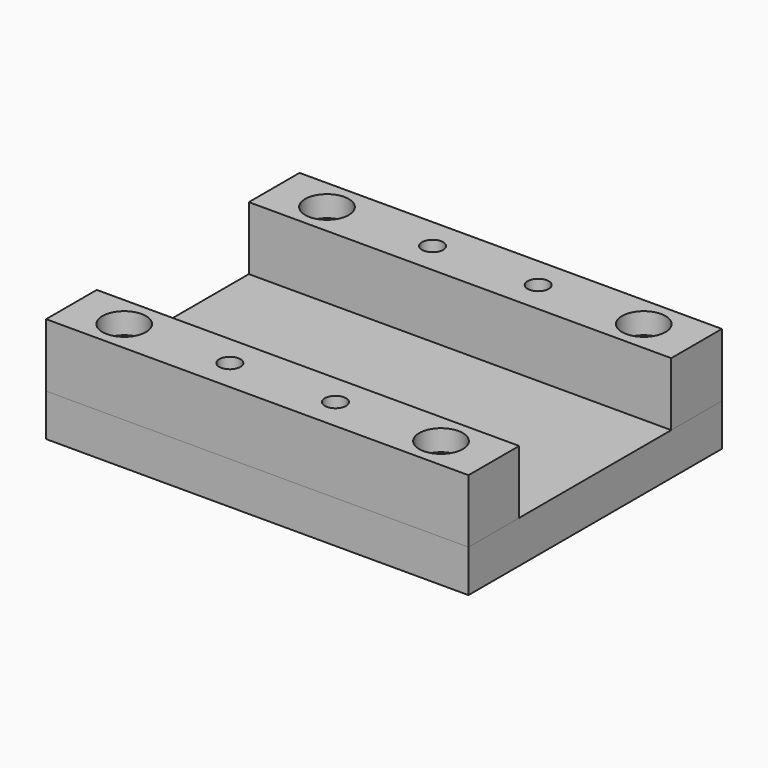
from build123d import *

# Parameters (mm, degrees)
F0_W             = 80
F0_H             = 60
F1_DEPTH         = 8
F2_W             = 80
F2_H             = 12
F3_DEPTH         = 12
F5_D             = 4.4
F5_DEPTH         = 12
F5_CBORE_D       = 8.25
F5_CBORE_DEPTH   = 4
F5_TIP           = 1.3218933619
F5_2_D           = 4.4
F5_2_DEPTH       = 12
F5_2_CBORE_D     = 8.25
F5_2_CBORE_DEPTH = 4
F5_2_TIP         = 1.3218933619
F7_D             = 4
F7_2_D           = 4
F7_3_D           = 4
F8_D             = 3.3
F8_CBORE_D       = 8.25
F8_CBORE_DEPTH   = 4


with BuildPart() as f1:
    # F0 (on Top) → F1 (new body)
    with BuildSketch(Plane.XY):
        with Locations((8.1536909938, 4.5676219463)):
            Rectangle(F0_W, F0_H)
    extrude(amount=F1_DEPTH)

    # F7 (through all)
    with Locations(Plane.XY.offset(20)):
        with Locations((-1.8463090062, 28.5676219463), (18.1536909938, 28.5676219463), (18.1536909938, -19.4323780537), (-1.8463090062, -19.4323780537)):
            Hole(F7_D / 2)

    # F8 (through all)
    with Locations(Plane.XY.offset(20)):
        with Locations((-21.8463090062, 28.5676219463), (38.1536909938, 28.5676219463), (38.1536909938, -19.4323780537), (-21.8463090062, -19.4323780537)):
            CounterBoreHole(F8_D / 2, F8_CBORE_D / 2, F8_CBORE_DEPTH)


with BuildPart() as f3:
    # F2 (on face) → F3 (new body)
    with BuildSketch(Plane.XY.offset(8)):
        with Locations((8.1536909938, 28.5676219463)):
            Rectangle(F2_W, F2_H)
    extrude(amount=F3_DEPTH)

    # F5
    with Locations(Plane.XY.offset(20)):
        with Locations((-21.8463090062, 28.5676219463), (38.1536909938, 28.5676219463), (38.1536909938, -19.4323780537), (-21.8463090062, -19.4323780537)):
            CounterBoreHole(F5_D / 2, F5_CBORE_D / 2, F5_CBORE_DEPTH, depth=F5_DEPTH)
            with Locations((0, 0, -(F5_DEPTH + F5_TIP / 2))):  # 118° drill point
                Cone(0, F5_D / 2, F5_TIP, mode=Mode.SUBTRACT)

    # F7#2 (through all)
    with Locations(Plane.XY.offset(20)):
        with Locations((-1.8463090062, 28.5676219463), (18.1536909938, 28.5676219463), (18.1536909938, -19.4323780537), (-1.8463090062, -19.4323780537)):
            Hole(F7_2_D / 2)


with BuildPart() as f3b:
    # F2 (on face) → F3, piece 2 (new body)
    with BuildSketch(Plane.XY.offset(8)):
        with Locations((8.1536909938, -19.4323780537)):
            Rectangle(F2_W, F2_H)
    extrude(amount=F3_DEPTH)

    # F5#2
    with Locations(Plane.XY.offset(20)):
        with Locations((-21.8463090062, 28.5676219463), (38.1536909938, 28.5676219463), (38.1536909938, -19.4323780537), (-21.8463090062, -19.4323780537)):
            CounterBoreHole(F5_2_D / 2, F5_2_CBORE_D / 2, F5_2_CBORE_DEPTH, depth=F5_2_DEPTH)
            with Locations((0, 0, -(F5_2_DEPTH + F5_2_TIP / 2))):  # 118° drill point
                Cone(0, F5_2_D / 2, F5_2_TIP, mode=Mode.SUBTRACT)

    # F7#3 (through all)
    with Locations(Plane.XY.offset(20)):
        with Locations((-1.8463090062, 28.5676219463), (18.1536909938, 28.5676219463), (18.1536909938, -19.4323780537), (-1.8463090062, -19.4323780537)):
            Hole(F7_3_D / 2)


solid = Compound([f1.part, f3.part, f3b.part])
